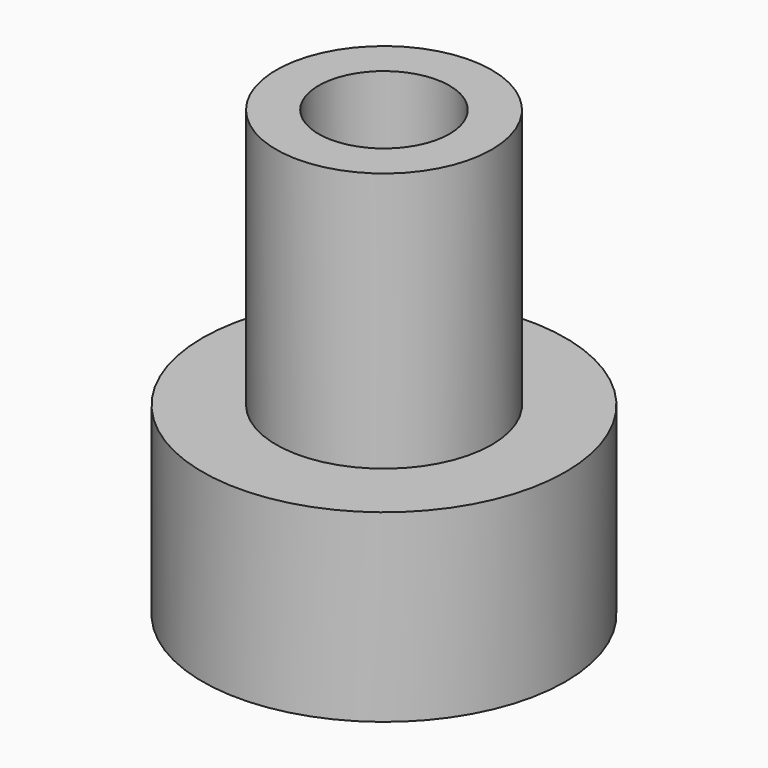
from build123d import *

# Parameters (mm, degrees)
F0_R     = 189.8719183156
F1_DEPTH = 218.44
F2_R     = 112.7334513361
F3_DEPTH = 271.78
F4_R     = 68.4797366721
F5_DEPTH = 322.58
F6_DEPTH = 360.68
F7_DEPTH = 1069.34
F8_DEPTH = 25.4


with BuildPart() as f1:
    # F0 (on Top) → F1 (new body)
    with BuildSketch(Plane.XY):
        Circle(F0_R)
    extrude(amount=-F1_DEPTH)

    # F2 (on face) → F3 (join)
    with BuildSketch(Plane.XY):
        Circle(F2_R)
    extrude(amount=F3_DEPTH)

    # F4 (on face) → F5 (join)
    with BuildSketch(Plane.XY.offset(271.78)):
        Circle(F4_R)
    extrude(amount=F5_DEPTH)

    # F4 (on face) + F2 (on face) → F6 (cut)
    with BuildSketch(Plane.XY.offset(271.78)):
        Circle(F4_R)
    with BuildSketch(Plane.XY):
        Circle(F2_R)
    extrude(amount=-F6_DEPTH, mode=Mode.SUBTRACT)

    # F7 (cut): a face of the model
    f7_faces = [f1.faces().sort_by_distance(p)[0] for p in [
        (0, 0, 594.36),
    ]]
    extrude(f7_faces, amount=-F7_DEPTH, mode=Mode.SUBTRACT)

    # F8 (cut): a face of the model
    f8_faces = [f1.faces().sort_by_distance(p)[0] for p in [
        (-184.5015294757, 0, -218.44),
    ]]
    extrude(f8_faces, amount=-F8_DEPTH, mode=Mode.SUBTRACT)


solid = f1.part
